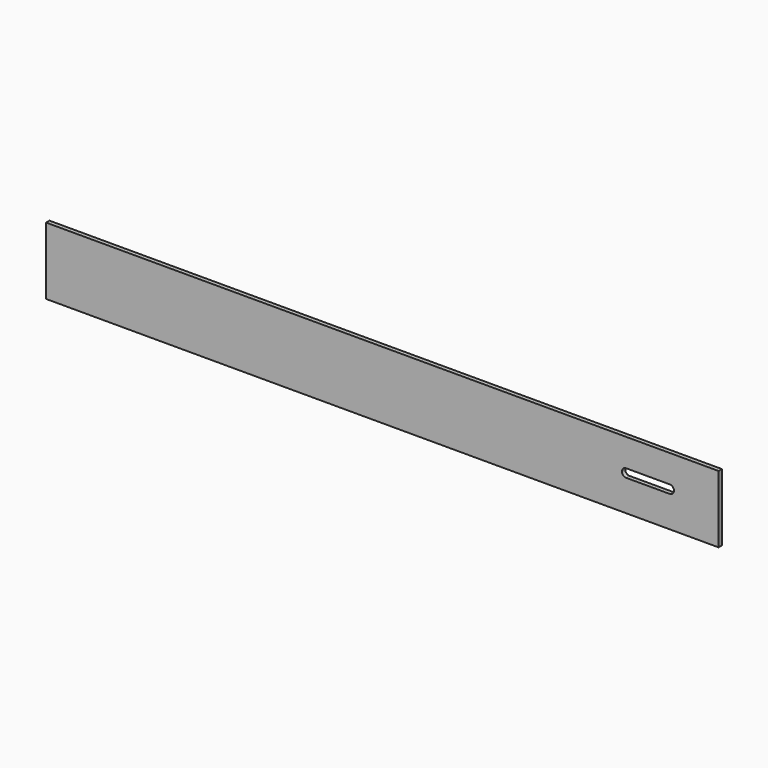
from build123d import *

# Parameters (mm, degrees)
F1_DEPTH = 3.175


with BuildPart() as f1:
    # F0 (on Front) → F1 (new body)
    with BuildSketch(Plane.XZ):
        Polygon((56.317639, 34.337022), (-451.682361, 34.337022), (-451.682361, 10.269964), (-451.682361, -16.462978), (56.317639, -16.462978), align=None)
        with BuildLine():
            ThreePointArc((-13.492939, 7.094964), (-15.738003, 8.0249), (-16.667939, 10.269964))
            ThreePointArc((-16.667939, 10.269964), (-15.827825, 12.42146), (-13.752075, 13.434371))
            ThreePointArc((-13.752075, 13.434371), (-13.493952, 13.444964), (-13.235823, 13.434536))
            Line((-13.235823, 13.434536), (19.443113, 13.444964))
            ThreePointArc((19.443113, 13.444964), (22.619127, 10.270471), (19.444127, 7.094964))
            Line((19.444127, 7.094964), (-13.492939, 7.094964))
        make_face(mode=Mode.SUBTRACT)
    extrude(amount=F1_DEPTH)


solid = f1.part
